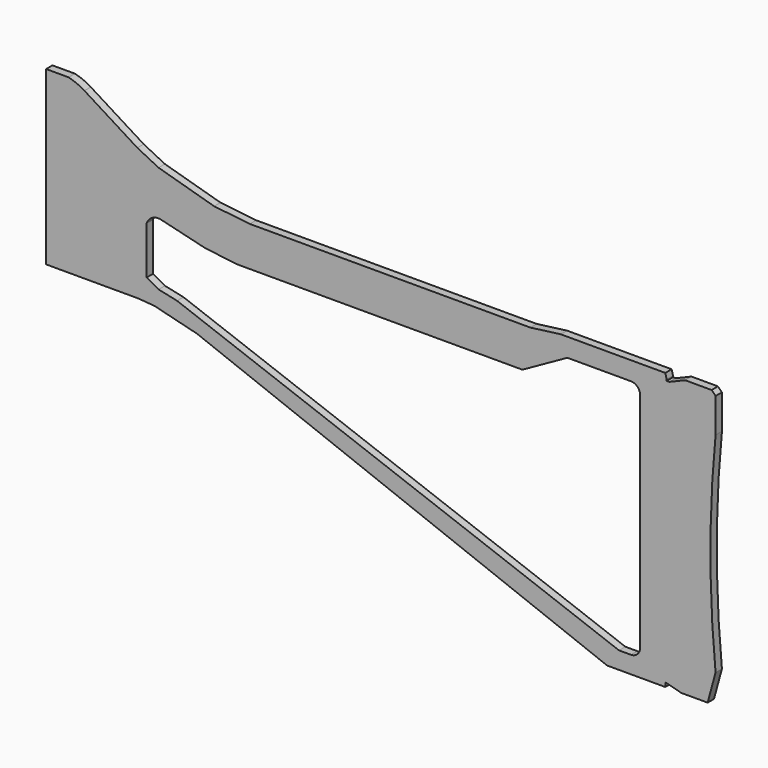
from build123d import *

# Parameters (mm, degrees)
F1_DEPTH = 3


with BuildPart() as f1:
    # F0 (on Front) → F1 (new body)
    with BuildSketch(Plane.XZ):
        with BuildLine():
            Line((8.5, 0), (0, 0))
            Line((0, 0), (0, -65))
            Line((0, -65), (35, -65))
            Line((35, -65), (41, -65.5))
            Line((41, -65.5), (57, -69.5))
            Line((57, -69.5), (212, -129.5))
            Line((212, -129.5), (234, -129.5))
            Line((234, -129.5), (234, -128))
            Line((234, -128), (234.5, -128))
            Line((234.5, -128), (240, -129.5))
            Line((240, -129.5), (250, -129.5))
            Line((250, -129.5), (253, -118.5))
            ThreePointArc((253, -118.5), (251.054419, -79), (253, -39.5))
            Line((253, -39.5), (253, -26.5))
            Line((253, -26.5), (251.5, -25))
            Line((251.5, -25), (241.5, -25))
            Line((241.5, -25), (235.5, -27.5))
            Line((235.5, -27.5), (234.5, -27.5))
            Line((234.5, -27.5), (234.5, -27))
            Line((234.5, -27), (234, -25))
            Line((234, -25), (194.5, -25))
            Line((194.5, -25), (183, -26.5))
            Line((183, -26.5), (77, -26.5))
            Line((77, -26.5), (63.5, -25))
            Line((63.5, -25), (42.5, -19))
            Line((42.5, -19), (34.5, -15))
            Line((34.5, -15), (14.5, -2.5))
            ThreePointArc((14.5, -2.5), (11.60261, -1.003737), (8.5, 0))
        make_face()
        with BuildLine():
            Line((77, -41.5), (87, -41.5))
            Line((87, -41.5), (113, -41.5))
            Line((113, -41.5), (138, -41.5))
            Line((138, -41.5), (180, -41.5))
            Line((180, -41.5), (197, -32))
            Line((197, -32), (221, -32))
            ThreePointArc((221, -32), (223.474874, -33.025126), (224.5, -35.5))
            Line((224.5, -35.5), (224.5, -119.5))
            ThreePointArc((224.5, -119.5), (223.474874, -121.974874), (221, -123))
            Line((221, -123), (216.5, -123))
            Line((216.5, -123), (49.5, -61))
            Line((49.5, -61), (42.5, -59.5))
            Line((42.5, -59.5), (38, -57))
            Line((38, -57), (38, -39))
            ThreePointArc((38, -39), (40.170635, -36.437831), (43.5, -36))
            Line((43.5, -36), (60, -40))
            Line((60, -40), (72, -41.5))
            Line((72, -41.5), (77, -41.5))
        make_face(mode=Mode.SUBTRACT)
    extrude(amount=F1_DEPTH)


solid = f1.part
